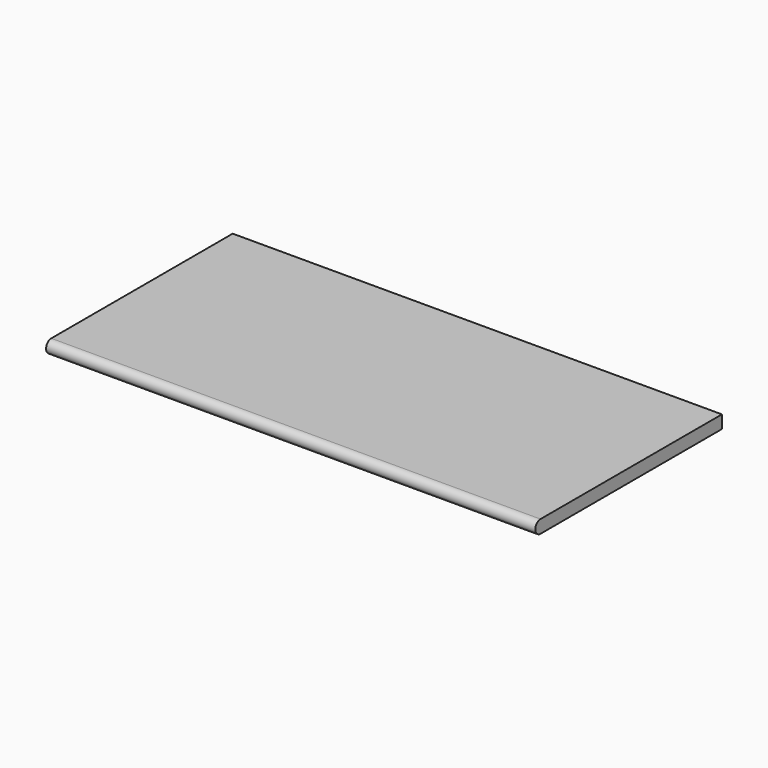
from build123d import *

# Parameters (mm, degrees)
F1_DEPTH = 299.6438


with BuildPart() as f1:
    # F0 (on Right) → F1 (new body, symmetric)
    with BuildSketch(Plane.YZ):
        with BuildLine():
            Line((0, -15.875), (0, 0))
            Line((0, 0), (-277.8125, 0))
            ThreePointArc((-277.8125, 0), (-285.75, -7.9375), (-277.8125, -15.875))
            Line((-277.8125, -15.875), (0, -15.875))
        make_face()
    extrude(amount=F1_DEPTH, both=True)


solid = f1.part
